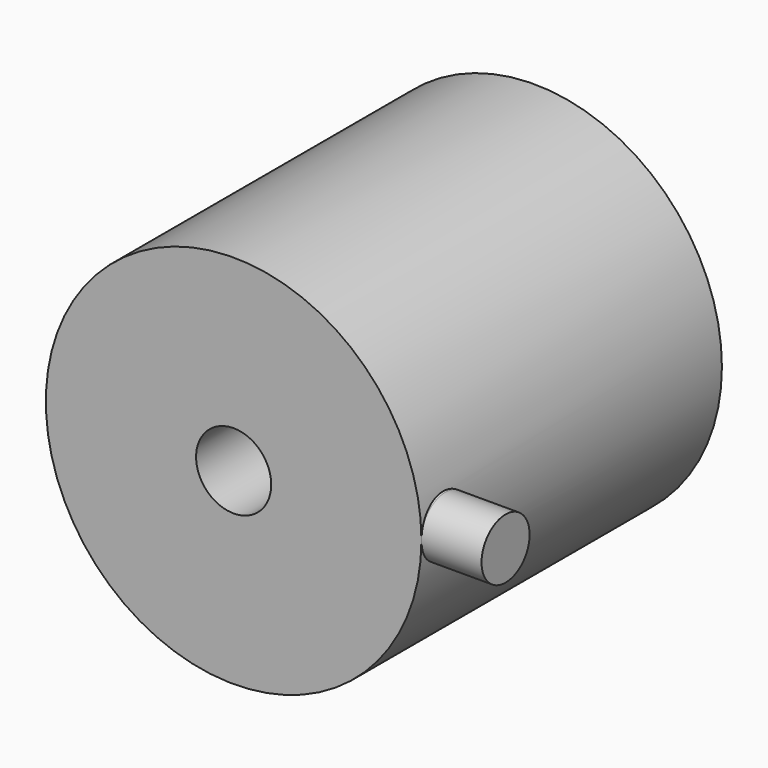
from build123d import *

# Parameters (mm, degrees)
F0_R          = 125
F0_R_2        = 25
F1_DEPTH      = 250
F3_DEPTH      = 100
F5_R          = 20
F6_DEPTH      = 40
F6_DEPTH_BACK = 10


with BuildPart() as f1:
    # F0 (on Front) → F1 (new body)
    with BuildSketch(Plane.XZ):
        Circle(F0_R)
        Circle(F0_R_2, mode=Mode.SUBTRACT)
    extrude(amount=F1_DEPTH)

    # F2 (on Front) → F3 (cut)
    with BuildSketch(Plane.XZ):
        with BuildLine():
            Line((-65, 20), (-83, 20))
            ThreePointArc((-83, 20), (-84.414214, 19.414214), (-85, 18))
            Line((-85, 18), (-85, 17))
            ThreePointArc((-85, 17), (-84.414214, 15.585786), (-83, 15))
            Line((-83, 15), (-81, 15))
            ThreePointArc((-81, 15), (-79.585786, 14.414214), (-79, 13))
            Line((-79, 13), (-79, -13))
            ThreePointArc((-79, -13), (-79.585786, -14.414214), (-81, -15))
            Line((-81, -15), (-83, -15))
            ThreePointArc((-83, -15), (-84.414214, -15.585786), (-85, -17))
            Line((-85, -17), (-85, -18))
            ThreePointArc((-85, -18), (-84.414214, -19.414214), (-83, -20))
            Line((-83, -20), (-65, -20))
            Line((-65, -20), (-65, 20))
        make_face()
    extrude(amount=F3_DEPTH, mode=Mode.SUBTRACT)

    # F5 (on offset) → F6 (join, two sides)
    with BuildSketch(Plane.YZ.offset(125)) as f6_sk:
        with Locations((-230, 0)):
            Circle(F5_R)
    extrude(amount=F6_DEPTH)
    extrude(f6_sk.sketch, amount=-F6_DEPTH_BACK)


solid = f1.part
